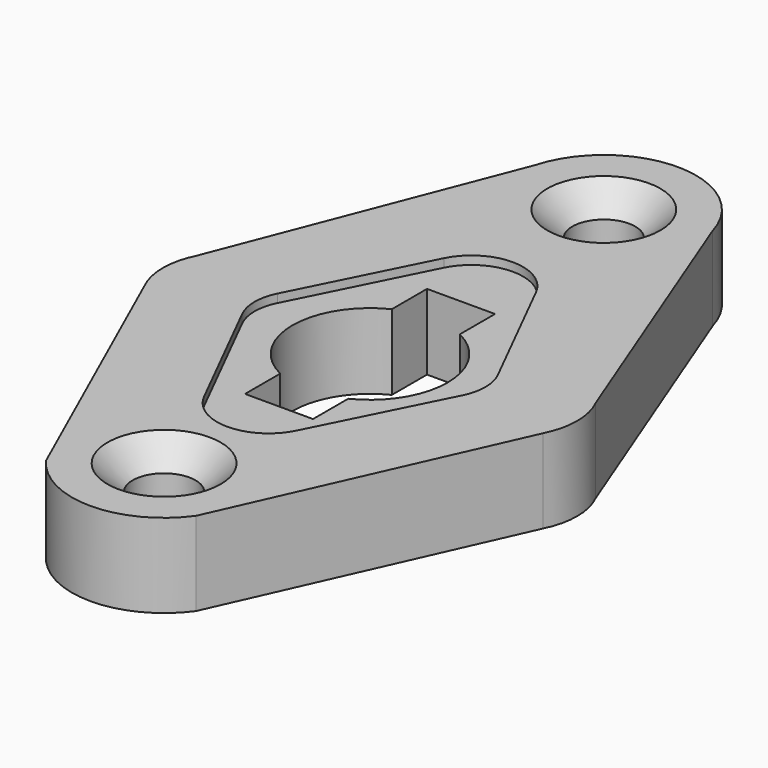
from build123d import *

# Parameters (mm, degrees)
SKETCH_R        = 3.746138
PAD_DEPTH       = 10
CHAMFER_SIZE    = 3
POCKET_DEPTH    = 1
POCKET001_DEPTH = 9.001


with BuildPart() as part:
    # Sketch → Pad (new body)
    with BuildSketch(Plane.XY):
        with BuildLine():
            ThreePointArc((-23.772092, 3.904727), (-24.696894, 0), (-23.772092, -3.904727))
            Line((-23.772092, -3.904727), (-8.931203, -37.109992))
            ThreePointArc((-8.931203, -37.109992), (0, -41.688736), (8.931203, -37.109992))
            Line((8.931203, -37.109992), (23.772092, -3.904727))
            ThreePointArc((23.772092, -3.904727), (24.696894, 0), (23.772092, 3.904727))
            Line((10.593771, 37.804188), (23.772092, 3.904727))
            ThreePointArc((10.593771, 37.804188), (0, 45.842754), (-10.593771, 37.804188))
            Line((-10.593771, 37.804188), (-23.772092, 3.904727))
        make_face()
        with Locations((0, 34.842873)):
            Circle(SKETCH_R, mode=Mode.SUBTRACT)
        with Locations((0, -30.688856)):
            Circle(SKETCH_R, mode=Mode.SUBTRACT)
    extrude(amount=PAD_DEPTH)

    # Chamfer
    chamfer_edges = [part.edges().sort_by_distance(p)[0] for p in [
        (-3.746138, 34.842873, 10),
        (-3.746138, -30.688856, 10),
    ]]
    chamfer(chamfer_edges, length=CHAMFER_SIZE)

    # Sketch001 (on Face4 of Chamfer) → Pocket (cut)
    with BuildSketch(Plane.XY.offset(10)):
        with BuildLine():
            ThreePointArc((5.49555, 17.868014), (0, 21.260344), (-5.49555, 17.868014))
            Line((-5.49555, 17.868014), (-13.141501, 2.617381))
            ThreePointArc((-13.141501, 2.617381), (-13.760876, 0), (-13.141501, -2.617381))
            Line((-13.141501, -2.617381), (-5.49555, -17.868014))
            ThreePointArc((-5.49555, -17.868014), (0, -21.260344), (5.49555, -17.868014))
            Line((5.49555, -17.868014), (13.141501, -2.617381))
            ThreePointArc((13.141501, -2.617381), (13.760876, 0), (13.141501, 2.617381))
            Line((5.49555, 17.868014), (13.141501, 2.617381))
        make_face()
    extrude(amount=-POCKET_DEPTH, mode=Mode.SUBTRACT)

    # Sketch002 (on Face23 of Pocket) → Pocket001 (cut, through all)
    with BuildSketch(Plane.XY.offset(9)):
        with BuildLine():
            ThreePointArc((-4.053463, 8.314375), (-9.249832, 0), (-4.053463, -8.314375))
            Line((-4.053463, -8.314375), (-4.053463, -13.561737))
            Line((-4.053463, -13.561737), (4.053463, -13.561737))
            Line((4.053463, -13.561737), (4.053463, -8.314375))
            ThreePointArc((4.053463, -8.314375), (9.249832, 0), (4.053463, 8.314375))
            Line((4.053463, 8.314375), (4.053463, 13.561737))
            Line((4.053463, 13.561737), (-4.053463, 13.561737))
            Line((-4.053463, 13.561737), (-4.053463, 8.314375))
        make_face()
    extrude(amount=-POCKET001_DEPTH, mode=Mode.SUBTRACT)


solid = part.part
